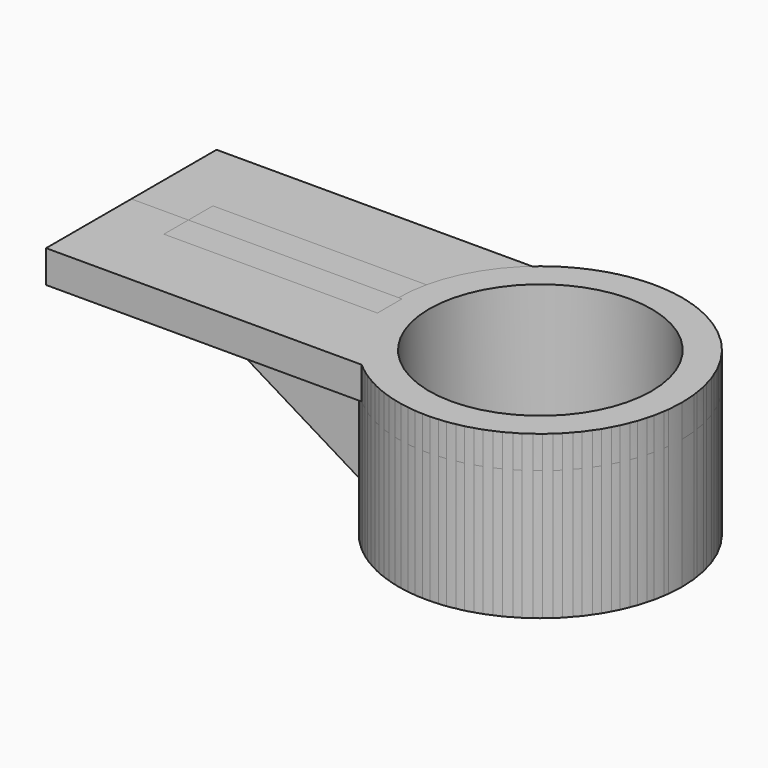
from build123d import *

# Parameters (mm, degrees)
F1_DEPTH = 6.35
F2_DEPTH = 6.35
F3_DEPTH = 25.4
F4_W     = 41.7647836408
F4_H     = 6.35
F5_DEPTH = 5.99059


with BuildPart() as f1:
    # F0 (on Top) → F1 (new body)
    with BuildSketch(Plane.XY):
        with BuildLine():
            ThreePointArc((12.2179435245, 5.9905964881), (15.4237541749, 14.1142861518), (20.997064695, 20.8381069054))
            Line((20.997064695, 20.8381069054), (-40.7157503068, 20.8381069054))
            Line((-40.7157503068, 20.8381069054), (-40.7157503068, 0))
            Line((-40.7157503068, 0), (-29.5468401164, 0))
            Line((-29.5468401164, 0), (-29.5468401164, 5.9905964881))
            Line((-29.5468401164, 5.9905964881), (12.2179435245, 5.9905964881))
        make_face()
    extrude(amount=F1_DEPTH)

    # F0 (on Top) → F2 (join)
    with BuildSketch(Plane.XY):
        with BuildLine():
            Line((61.0449077465, 0), (67.0253527713, 0))
            ThreePointArc((67.0253527713, 0), (50.7313138176, 25.2627690615), (20.997064695, 20.8381069054))
            ThreePointArc((20.997064695, 20.8381069054), (15.4237541749, 14.1142861518), (12.2179435245, 5.9905964881))
            ThreePointArc((12.2179435245, 5.9905964881), (11.7273383811, 3.0131376464), (11.5631552983, 0))
            Line((11.5631552983, 0), (17.543600323, 0))
            ThreePointArc((17.543600323, 0), (39.2942540348, 21.7506537117), (61.0449077465, 0))
        make_face()
        with BuildLine():
            ThreePointArc((11.5631552983, 0), (39.2942540348, -27.7310987365), (67.0253527713, 0))
            Line((67.0253527713, 0), (61.0449077465, 0))
            ThreePointArc((61.0449077465, 0), (39.2942540348, -21.7506537117), (17.543600323, 0))
            Line((17.543600323, 0), (11.5631552983, 0))
        make_face()
    extrude(amount=F2_DEPTH)

    # F0 (on Top) → F3 (join)
    with BuildSketch(Plane.XY):
        with BuildLine():
            Line((61.0449077465, 0), (67.0253527713, 0))
            ThreePointArc((67.0253527713, 0), (50.7313138176, 25.2627690615), (20.997064695, 20.8381069054))
            ThreePointArc((20.997064695, 20.8381069054), (15.4237541749, 14.1142861518), (12.2179435245, 5.9905964881))
            ThreePointArc((12.2179435245, 5.9905964881), (11.7273383811, 3.0131376464), (11.5631552983, 0))
            Line((11.5631552983, 0), (17.543600323, 0))
            ThreePointArc((17.543600323, 0), (39.2942540348, 21.7506537117), (61.0449077465, 0))
        make_face()
        with BuildLine():
            ThreePointArc((11.5631552983, 0), (39.2942540348, -27.7310987365), (67.0253527713, 0))
            Line((67.0253527713, 0), (61.0449077465, 0))
            ThreePointArc((61.0449077465, 0), (39.2942540348, -21.7506537117), (17.543600323, 0))
            Line((17.543600323, 0), (11.5631552983, 0))
        make_face()
    extrude(amount=-F3_DEPTH)


with BuildPart() as f5:
    # F4 (on face) → F5 (new body)
    with BuildSketch(Plane.XZ.offset(-5.9905964881)):
        Polygon((12.2179435245, -25.4), (12.2179435245, 0), (-29.5468401164, 0), align=None)
        with Locations((-8.664448296, 3.175)):
            Rectangle(F4_W, F4_H)
    extrude(amount=F5_DEPTH)


with BuildPart() as f6_1:
    # F6: instance of F1
    add(f1.part.mirror(Plane.XZ))


with BuildPart() as f6_2:
    # F6: instance of F5
    add(f5.part.mirror(Plane.XZ))


solid = Compound([f1.part, f5.part, f6_1.part, f6_2.part])
